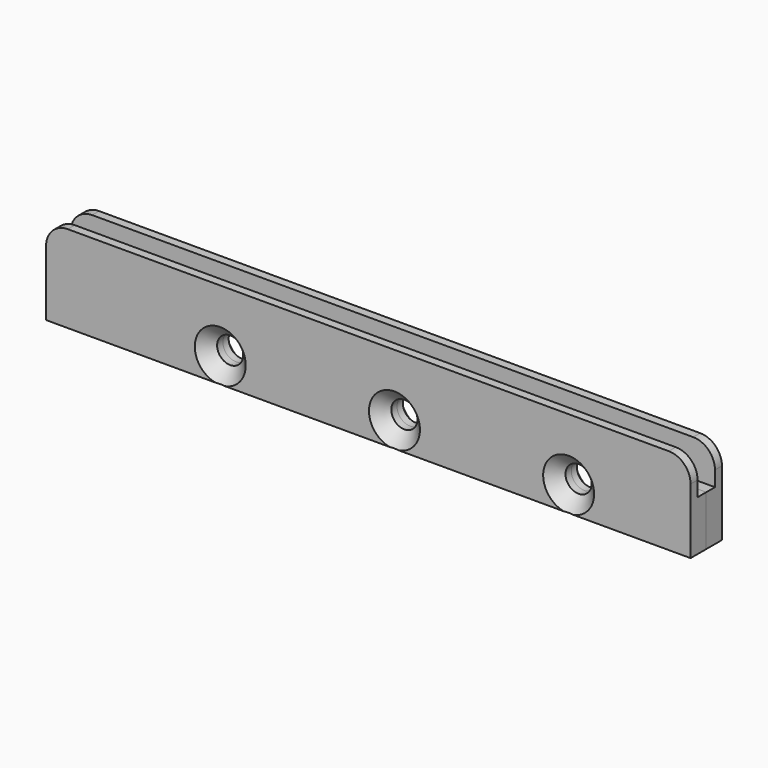
from build123d import *

# Parameters (mm, degrees)
F0_W           = 148
F0_H           = 11.5
F1_DEPTH       = 2.5
F2_W           = 148
F2_H           = 20
F3_DEPTH       = 2
F5_D           = 6
F5_CSINK_D     = 11.7
F5_CSINK_ANGLE = 90
F6_R           = 5


with BuildPart() as f1:
    # F0 (on Front) → F1 (new body)
    with BuildSketch(Plane.XZ):
        with Locations((0, 5.75)):
            Rectangle(F0_W, F0_H)
    extrude(amount=-F1_DEPTH)

    # F2 (on face) → F3 (join)
    with BuildSketch(Plane(origin=(0, 2.5, 0), x_dir=(-1, 0, 0), z_dir=(0, 1, 0))):
        with Locations((0, 10)):
            Rectangle(F2_W, F2_H)
    extrude(amount=F3_DEPTH)

    # F5 (through all)
    with Locations(Plane(origin=(0, 4.5, 0), x_dir=(-1, 0, 0), z_dir=(0, 1, 0))):
        with Locations((-46, 5.75), (-6, 5.75), (34, 5.75)):
            CounterSinkHole(F5_D / 2, F5_CSINK_D / 2, counter_sink_angle=F5_CSINK_ANGLE)

    # F6
    f6_edges = [f1.edges().sort_by_distance(p)[0] for p in [
        (-74, 3.5, 20),
        (74, 3.5, 20),
    ]]
    fillet(f6_edges, radius=F6_R)


with BuildPart() as f7_1:
    # F7: instance of F1
    add(f1.part.mirror(Plane.XZ))


solid = Compound([f1.part, f7_1.part])
